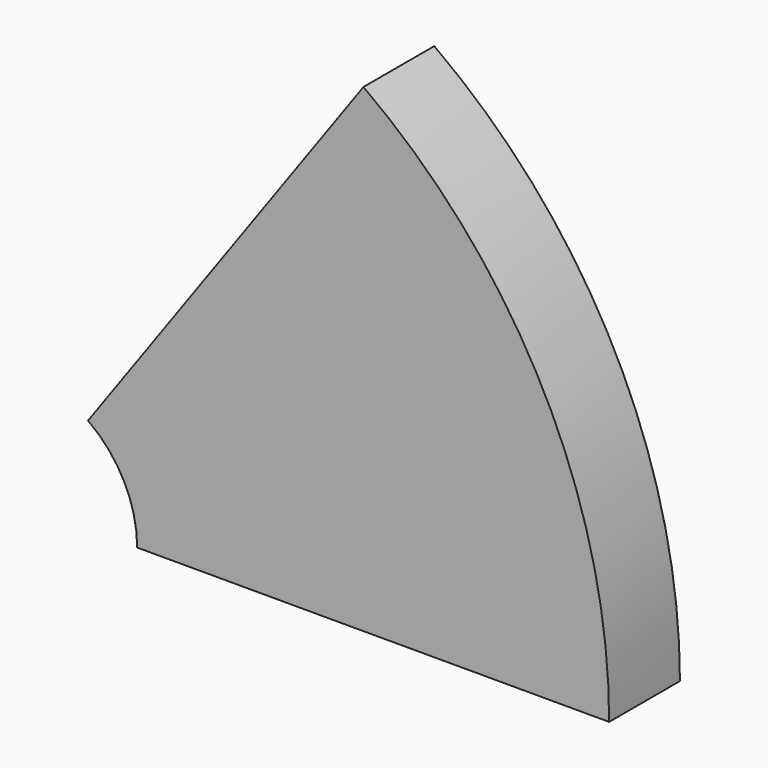
from build123d import *

# Parameters (mm, degrees)
PAD_DEPTH = 19.05


with BuildPart() as part:
    # Sketch → Pad (new body)
    with BuildSketch(Plane.XZ):
        with BuildLine():
            ThreePointArc((127, 0), (113.006496, 57.952842), (74.109734, 103.134608))
            Line((14.821947, 20.626922), (74.109734, 103.134608))
            ThreePointArc((25.4, 0), (22.601299, 11.590568), (14.821947, 20.626922))
            Line((25.4, 0), (127, 0))
        make_face()
    extrude(amount=PAD_DEPTH)


solid = part.part
